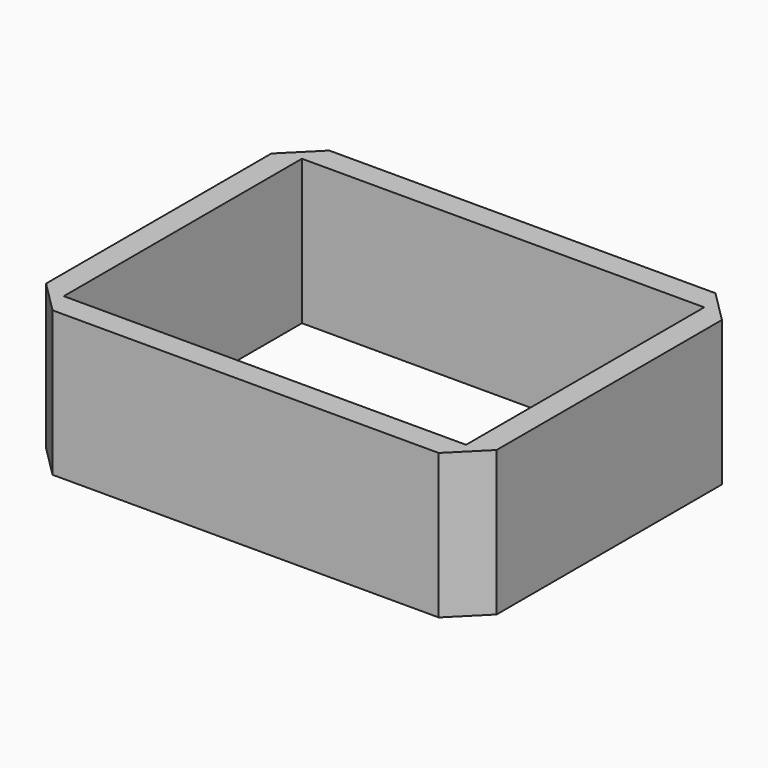
from build123d import *

# Parameters (mm, degrees)
F0_W     = 71.12
F0_H     = 54.61
F0_W_2   = 63.5
F0_H_2   = 46.99
F1_DEPTH = 22.86
F2_SIZE  = 5.08


with BuildPart() as f1:
    # F0 (on Top) → F1 (new body)
    with BuildSketch(Plane.XY):
        Rectangle(F0_W, F0_H)
        Rectangle(F0_W_2, F0_H_2, mode=Mode.SUBTRACT)
    extrude(amount=F1_DEPTH)

    # F2
    f2_edges = [f1.edges().sort_by_distance(p)[0] for p in [
        (35.56, -27.305, 11.43),
        (-35.56, 27.305, 11.43),
        (35.56, 27.305, 11.43),
        (-35.56, -27.305, 11.43),
    ]]
    chamfer(f2_edges, length=F2_SIZE)


solid = f1.part
